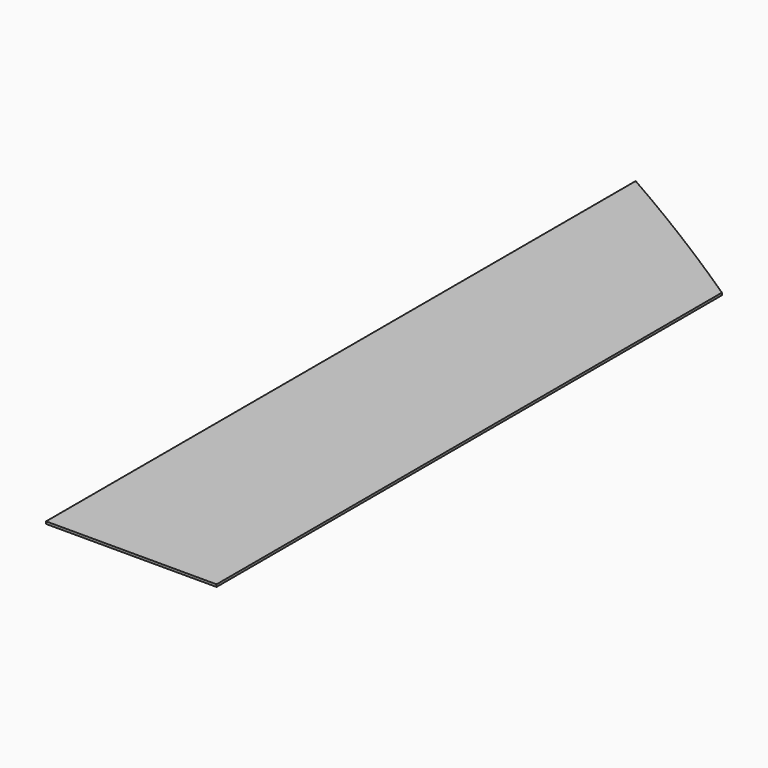
from build123d import *

# Parameters (mm, degrees)
F1_DEPTH = 25.4


with BuildPart() as f1:
    # F0 (on Top) → F1 (new body)
    with BuildSketch(Plane.XY):
        with BuildLine():
            Line((-957.263546, 4106.952196), (-957.263546, -3909.033804))
            Line((-957.263546, -3909.033804), (-30.163546, -3909.033804))
            Line((-30.163546, -3909.033804), (-30.163546, 3556.280196))
            ThreePointArc((-30.163546, 3556.280196), (-491.37691, 3835.550108), (-957.263546, 4106.952196))
        make_face()
        with BuildLine():
            Line((-30.163546, 3556.280196), (-30.163546, -3909.033804))
            Line((-30.163546, -3909.033804), (896.936454, -3909.033804))
            Line((896.936454, -3909.033804), (896.936454, 2961.666196))
            ThreePointArc((896.936454, 2961.666196), (435.963579, 3262.991353), (-30.163546, 3556.280196))
        make_face()
    extrude(amount=F1_DEPTH)


solid = f1.part
